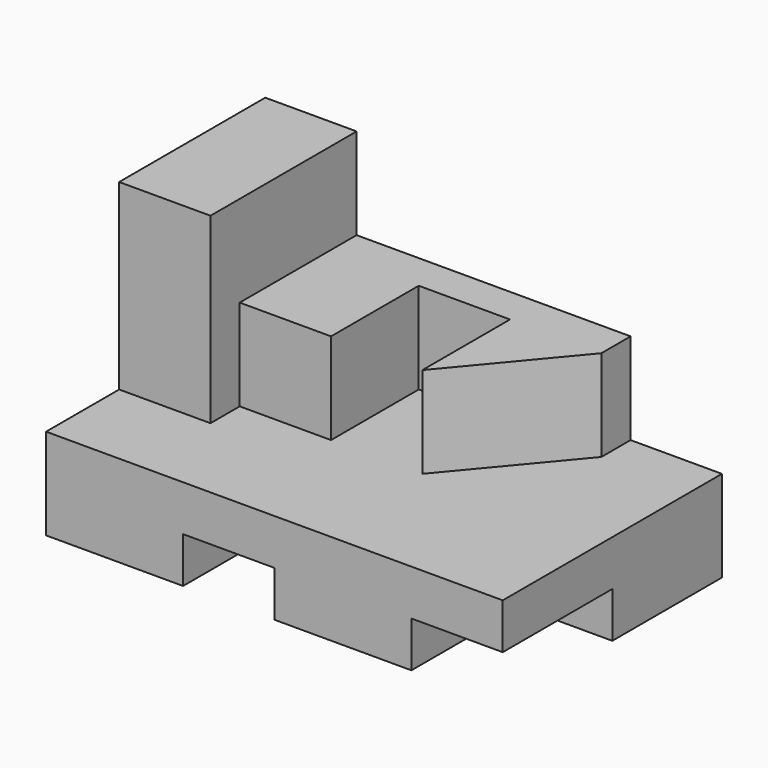
from build123d import *

# Parameters (mm, degrees)
F0_W     = 190.5
F0_H     = 317.5
F1_DEPTH = 15.875
F3_DEPTH = 127
F4_DEPTH = 63.5
F5_W     = 190.5
F5_H     = 95.25
F6_DEPTH = 31.75
F7_ANGLE = 90


with BuildPart() as f1:
    # F0 (on Top) → F1 (new body, symmetric)
    with BuildSketch(Plane.XY):
        with Locations((95.25, 158.75)):
            Rectangle(F0_W, F0_H)
    extrude(amount=F1_DEPTH, both=True)

    # F2 (on face) → F3 (join)
    with BuildSketch(Plane.XY.offset(15.875)):
        Polygon((101.6, 63.5), (0, 63.5), (0, 0), (127, 0), (127, 63.5), align=None)
    extrude(amount=F3_DEPTH)

    # F2 (on face) → F4 (join)
    with BuildSketch(Plane.XY.offset(15.875)):
        Polygon((0, 254), (0, 63.5), (101.6, 63.5), (101.6, 127), (25.4, 127), (25.4, 190.5), (101.6, 190.5), (25.4, 254), align=None)
    extrude(amount=F4_DEPTH)

    # F5 (on face) → F6 (join)
    with BuildSketch(Plane(origin=(0, 0, -15.875), x_dir=(1, 0, 0), z_dir=(0, 0, -1))):
        with Locations((95.25, -47.625)):
            Rectangle(F5_W, F5_H)
        Polygon((190.5, -254), (190.5, -158.75), (0, -158.75), (0, -317.5), (95.25, -317.5), (95.25, -254), align=None)
    extrude(amount=F6_DEPTH)


with BuildPart() as f1_1:
    # F7: moved
    add(f1.part.rotate(Axis((0, 0, 0), (0, 0, -1)), F7_ANGLE))


solid = f1_1.part
